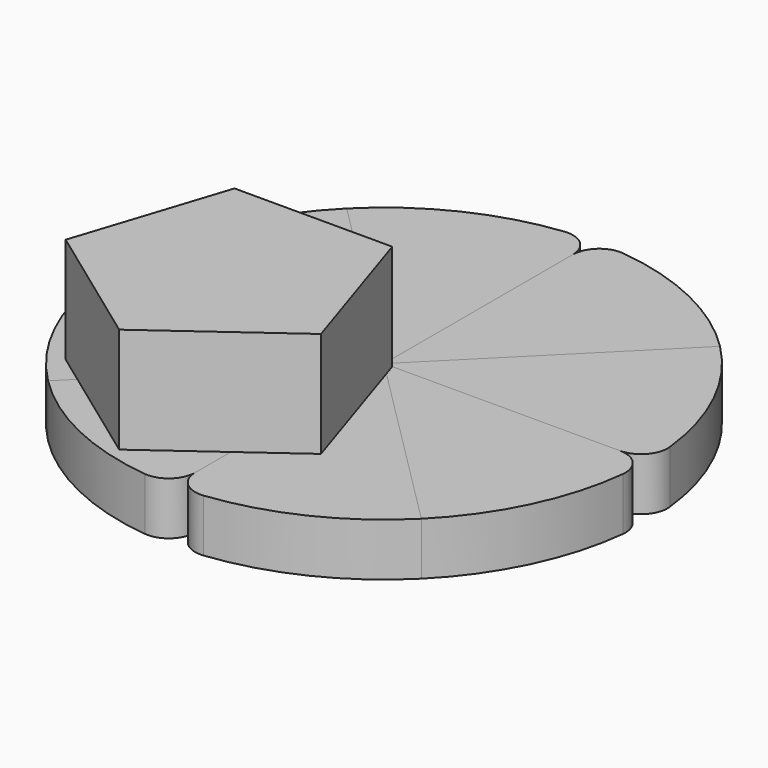
from build123d import *

# Parameters (mm, degrees)
F1_DEPTH       = 10
F2_R           = 5
F2_2_R         = 5
F2_3_R         = 5
F2_4_R         = 5
F4_D           = 4.2
F4_CBORE_D     = 9.75
F4_CBORE_DEPTH = 5
F6_COUNT       = 4
F9_DEPTH       = 20


with BuildPart() as f1:
    # F0 (on Top) → F1 (new body)
    with BuildSketch(Plane.XY):
        with BuildLine():
            Line((0, 0), (35.3553390593, 35.3553390593))
            ThreePointArc((35.3553390593, 35.3553390593), (19.1341716183, 46.1939766256), (0, 50))
            Line((0, 50), (0, 0))
        make_face()
    extrude(amount=F1_DEPTH)

    # F2#2
    f2_2_edges = [f1.edges().sort_by_distance(p)[0] for p in [
        (0, 50, 5),
    ]]
    fillet(f2_2_edges, radius=F2_2_R)


with BuildPart() as f1b:
    # F0 (on Top) → F1, piece 2 (new body)
    with BuildSketch(Plane.XY):
        with BuildLine():
            Line((50, 0), (0, 0))
            Line((0, 0), (35.3553390593, -35.3553390593))
            ThreePointArc((35.3553390593, -35.3553390593), (46.1939766256, -19.1341716183), (50, 0))
        make_face()
    extrude(amount=F1_DEPTH)

    # F2
    f2_edges = [f1b.edges().sort_by_distance(p)[0] for p in [
        (50, 0, 5),
    ]]
    fillet(f2_edges, radius=F2_R)


with BuildPart() as f1c:
    # F0 (on Top) → F1, piece 3 (new body)
    with BuildSketch(Plane.XY):
        with BuildLine():
            Line((0, -50), (0, 0))
            Line((0, 0), (-35.3553390593, -35.3553390593))
            ThreePointArc((-35.3553390593, -35.3553390593), (-19.1341716183, -46.1939766256), (0, -50))
        make_face()
    extrude(amount=F1_DEPTH)

    # F2#4
    f2_4_edges = [f1c.edges().sort_by_distance(p)[0] for p in [
        (0, -50, 5),
    ]]
    fillet(f2_4_edges, radius=F2_4_R)


with BuildPart() as f1d:
    # F0 (on Top) → F1, piece 4 (new body)
    with BuildSketch(Plane.XY):
        with BuildLine():
            Line((-50, 0), (0, 0))
            Line((0, 0), (-35.3553390593, 35.3553390593))
            ThreePointArc((-35.3553390593, 35.3553390593), (-46.1939766256, 19.1341716183), (-50, 0))
        make_face()
    extrude(amount=F1_DEPTH)

    # F2#3
    f2_3_edges = [f1d.edges().sort_by_distance(p)[0] for p in [
        (-50, 0, 5),
    ]]
    fillet(f2_3_edges, radius=F2_3_R)

    # F4 (through all)
    with Locations(Plane.XY.offset(10)):
        with Locations((-30.4840616882, 20.2865600586)):
            CounterBoreHole(F4_D / 2, F4_CBORE_D / 2, F4_CBORE_DEPTH)


with BuildPart() as f5_1:
    # F5: instance of F1
    add(f1.part.mirror(Plane(origin=(0, 22.360679775, 5), x_dir=(0, -1, 0), z_dir=(-1, 0, 0))))


with BuildPart() as f6_1:
    # F6: instance of F5_1
    add(f5_1.part.rotate(Axis((0, 0, 5), (0, 0, -1)), 1 * 360 / F6_COUNT))


with BuildPart() as f6_2:
    # F6: instance of F5_1
    add(f5_1.part.rotate(Axis((0, 0, 5), (0, 0, -1)), 2 * 360 / F6_COUNT))


with BuildPart() as f6_3:
    # F6: instance of F5_1
    add(f5_1.part.rotate(Axis((0, 0, 5), (0, 0, -1)), 3 * 360 / F6_COUNT))


with BuildPart() as f9:
    # F8 (on offset) → F9 (new body, through all)
    with BuildSketch(Plane.XY.offset(30)):
        Polygon((1.5615654095, 0), (-28.3201763815, 0), (-37.5541424164, -28.4192252485), (-13.379305486, -45.9832723861), (10.7955314444, -28.4192252485), align=None)
    extrude(amount=-F9_DEPTH)


solid = Compound([f1.part, f1b.part, f1c.part, f1d.part, f5_1.part, f6_1.part, f6_2.part, f6_3.part, f9.part])
